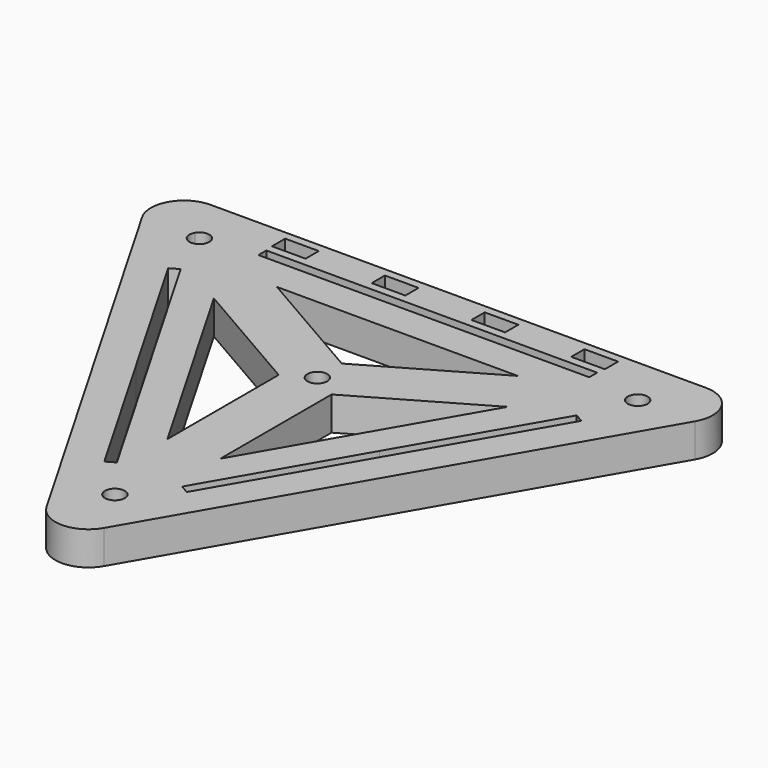
from build123d import *

# Parameters (mm, degrees)
F0_R     = 1.5
F1_DEPTH = 5.08
F2_R     = 5
F3_W     = 50
F3_H     = 1.5
F3_W_2   = 5.08
F3_H_2   = 2.5
F4_DEPTH = 25


with BuildPart() as f1:
    # F0 (on Top) → F1 (new body)
    with BuildSketch(Plane.XY):
        Polygon((0, 78.118305), (-46.115853, 78.118305), (0, -1.756695), (46.115853, 78.118305), align=None)
        with Locations((0, 13.243305)):
            Circle(F0_R, mode=Mode.SUBTRACT)
        Polygon((-18.197268, 66.618305), (0, 66.618305), (18.197268, 66.618305), (26.197268, 66.618305), (22.197268, 59.690101), (4, 28.171508), (0, 21.243305), (-4, 28.171508), (-22.197268, 59.690101), (-26.197268, 66.618305), align=None, mode=Mode.SUBTRACT)
        with BuildLine():
            ThreePointArc((-34.42451, 71.368305), (-32.737243, 72.067193), (-31.625472, 70.618305))
            ThreePointArc((-31.625472, 70.618305), (-33.5137, 69.169416), (-34.42451, 71.368305))
        make_face(mode=Mode.SUBTRACT)
        with BuildLine():
            ThreePointArc((34.625472, 70.618305), (31.676583, 70.230076), (34.42451, 71.368305))
            ThreePointArc((34.42451, 71.368305), (34.57436, 71.006533), (34.625472, 70.618305))
        make_face(mode=Mode.SUBTRACT)
        Polygon((26.197268, 66.618305), (18.197268, 66.618305), (0, 56.112107), (-18.197268, 66.618305), (-26.197268, 66.618305), (-22.197268, 59.690101), (-4, 49.183903), (-4, 28.171508), (0, 21.243305), (4, 28.171508), (4, 49.183903), (22.197268, 59.690101), align=None)
        with Locations((0, 51.493305)):
            Circle(F0_R, mode=Mode.SUBTRACT)
    extrude(amount=F1_DEPTH)

    # F2
    f2_edges = [f1.edges().sort_by_distance(p)[0] for p in [
        (-46.115853, 78.118305, 2.54),
        (0, -1.756695, 2.54),
        (46.115853, 78.118305, 2.54),
    ]]
    fillet(f2_edges, radius=F2_R)

    # F3 (on face) → F4 (cut)
    with BuildSketch(Plane.XY.offset(5.08)):
        with Locations((0, 72.368305)):
            Rectangle(F3_W, F3_H)
        with Locations((0, 72.368305)):
            Rectangle(F3_W, F3_H)
        Polygon((-6.227799, 19.030169), (-5.57828, 19.405169), (-4.928761, 19.780169), (-17.428761, 41.430805), (-29.928761, 63.08144), (-30.57828, 62.70644), (-31.227799, 62.33144), (-18.727799, 40.680805), align=None)
        Polygon((30.57828, 62.70644), (29.928761, 63.08144), (17.428761, 41.430805), (4.928761, 19.780169), (5.57828, 19.405169), (6.227799, 19.030169), (18.727799, 40.680805), (31.227799, 62.33144), align=None)
        Polygon((10.08, 76.868305), (5, 76.868305), (5, 75.618305), (5, 74.368305), (10.08, 74.368305), align=None)
        with Locations((22.62, 75.618305)):
            Rectangle(F3_W_2, F3_H_2)
        with Locations((-22.62, 75.618305)):
            Rectangle(F3_W_2, F3_H_2)
        with Locations((-7.54, 75.618305)):
            Rectangle(F3_W_2, F3_H_2)
    extrude(amount=-F4_DEPTH, mode=Mode.SUBTRACT)


solid = f1.part
